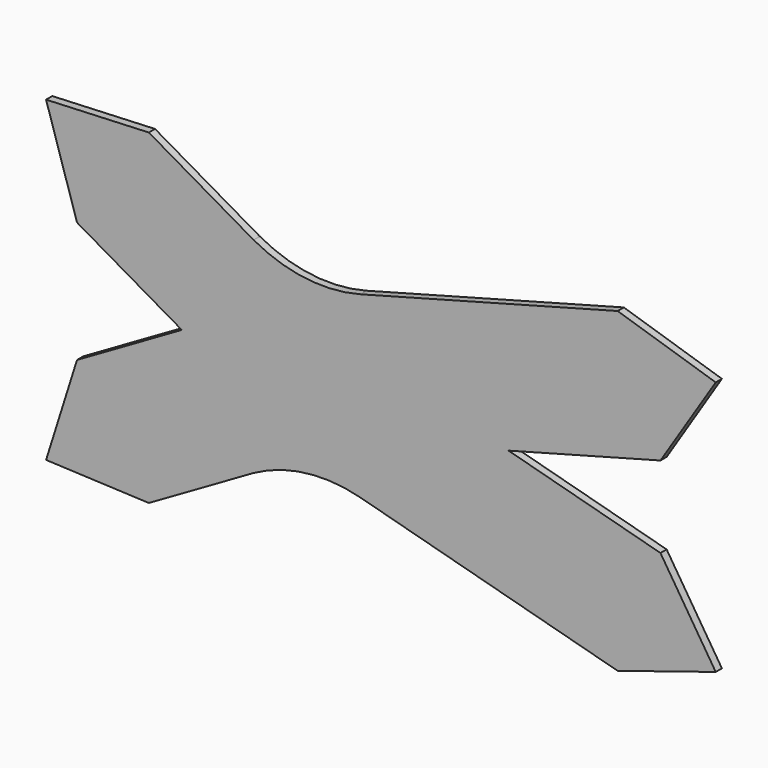
from build123d import *

# Parameters (mm, degrees)
F1_DEPTH = 2.032


with BuildPart() as f1:
    # F0 (on Front) → F1 (new body)
    with BuildSketch(Plane.XZ):
        with BuildLine():
            Line((-27.496307, 15.875), (0, 0))
            Line((0, 0), (-27.496307, -15.875))
            Line((-27.496307, -15.875), (-35.611604, -41.613436))
            Line((-35.611604, -41.613436), (-8.64979, -42.790614))
            Line((-8.64979, -42.790614), (18.846516, -26.915614))
            ThreePointArc((18.846516, -26.915614), (32.532451, -22.474943), (46.885606, -23.48057))
            Line((46.885606, -23.48057), (114.355525, -41.55908))
            Line((114.355525, -41.55908), (140.093962, -33.443783))
            Line((140.093962, -33.443783), (125.593588, -10.682756))
            Line((125.593588, -10.682756), (85.725, 0))
            Line((85.725, 0), (125.593588, 10.682756))
            Line((125.593588, 10.682756), (140.093962, 33.443783))
            Line((140.093962, 33.443783), (114.355525, 41.55908))
            Line((114.355525, 41.55908), (46.885606, 23.48057))
            ThreePointArc((46.885606, 23.48057), (32.532451, 22.474943), (18.846516, 26.915614))
            Line((18.846516, 26.915614), (-8.64979, 42.790614))
            Line((-8.64979, 42.790614), (-35.611604, 41.613436))
            Line((-35.611604, 41.613436), (-27.496307, 15.875))
        make_face()
    extrude(amount=F1_DEPTH)


solid = f1.part
